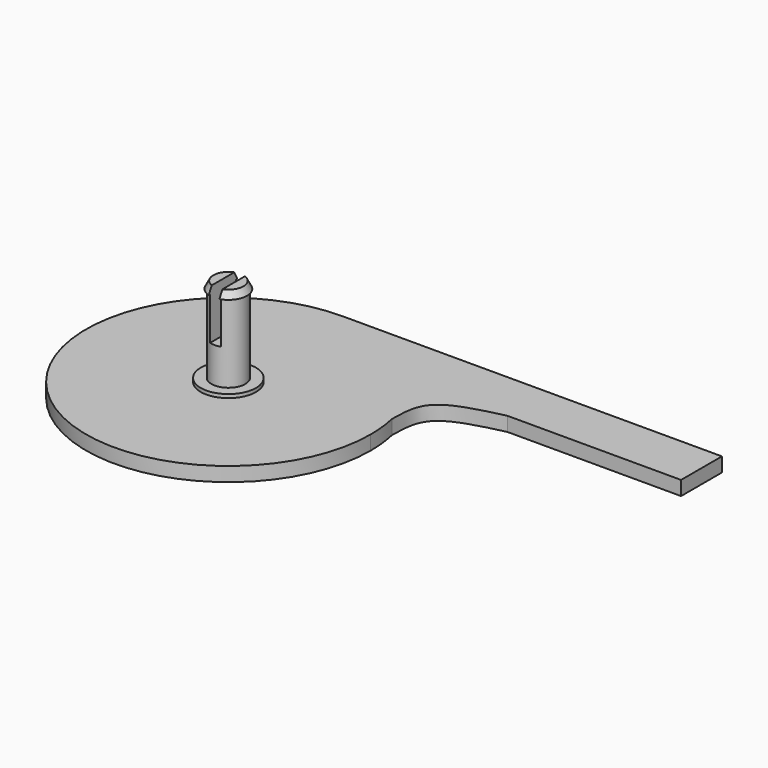
from build123d import *

# Parameters (mm, degrees)
F1_DEPTH = 2
F5_DEPTH = 7


with BuildPart() as f1:
    # F0 (on Top) → F1 (new body)
    with BuildSketch(Plane.XY):
        with BuildLine():
            ThreePointArc((0, 20), (-14.1421356237, -14.1421356237), (20, 0))
            ThreePointArc((20, 0), (19.8801750957, 2.1860096442), (19.5221361835, 4.3458254488))
            ThreePointArc((19.5221361835, 4.3458254488), (12.5116643782, 15.6031488645), (0, 20))
        make_face()
        with BuildLine():
            ThreePointArc((0, 20), (12.5116643782, 15.6031488645), (19.5221361835, 4.3458254488))
            add(Edge.make_bspline(
                [(19.5221361835, 4.3458254488), (19.5522097075, 6.2540398569), (19.5931412655, 10.6298460328), (25.5746730025, 12.0320439415), (28.9447810501, 12.8235351294)],
                knots=[0, 0, 0, 0, 0.4357911991, 1, 1, 1, 1], degree=3))
            Line((28.9447810501, 12.8235351294), (53.3421300352, 12.8235351294))
            Line((53.3421300352, 12.8235351294), (53.3421300352, 20))
            Line((53.3421300352, 20), (0, 20))
        make_face()
    extrude(amount=F1_DEPTH)

    # F2 (on Front) → F3 (revolve)
    with BuildSketch(Plane.XZ):
        Polygon((-2.375, 0), (0, 0), (0, 14.5), (-2.1112329669, 14.5), (-2.625, 13.5), (-2.375, 13.5), (-2.375, 2.5), (-3.875, 2.5), (-3.875, 0), align=None)
    revolve(axis=Axis((0, 0, 6.1913983081), (0, 0, 1)))

    # F4 (on face) → F5 (cut)
    with BuildSketch(Plane.XY.offset(14.5)):
        with BuildLine():
            ThreePointArc((-0.75, 1.9735259412), (0, 2.1112329669), (0.75, 1.9735259412))
            Line((0.75, 1.9735259412), (0.75, 4.4615390464))
            Line((0.75, 4.4615390464), (-0.75, 4.4615390464))
            Line((-0.75, 4.4615390464), (-0.75, 1.9735259412))
        make_face()
        with BuildLine():
            ThreePointArc((-0.75, -1.9735259412), (0, -2.1112329669), (0.75, -1.9735259412))
            Line((0.75, -1.9735259412), (0.75, 1.9735259412))
            ThreePointArc((0.75, 1.9735259412), (0, 2.1112329669), (-0.75, 1.9735259412))
            Line((-0.75, 1.9735259412), (-0.75, -1.9735259412))
        make_face()
        with BuildLine():
            Line((-0.75, -4.4615390464), (0.75, -4.4615390464))
            Line((0.75, -4.4615390464), (0.75, -1.9735259412))
            ThreePointArc((0.75, -1.9735259412), (0, -2.1112329669), (-0.75, -1.9735259412))
            Line((-0.75, -1.9735259412), (-0.75, -4.4615390464))
        make_face()
    extrude(amount=-F5_DEPTH, mode=Mode.SUBTRACT)


solid = f1.part
